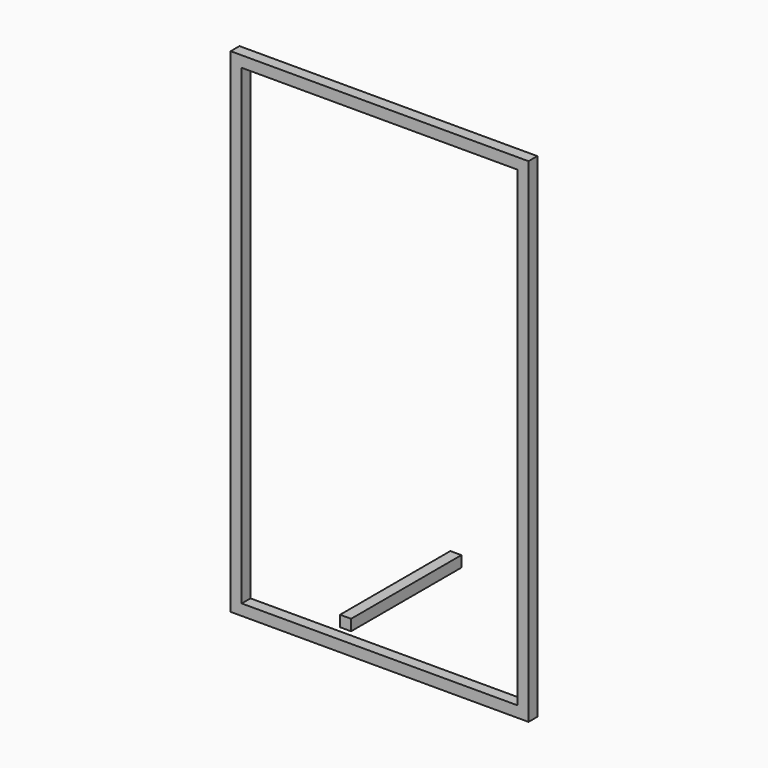
from build123d import *

# Parameters (mm, degrees)
F0_W     = 40
F0_H     = 1710
F1_DEPTH = 40
F2_W     = 40
F2_H     = 40
F3_DEPTH = 500


with BuildPart() as f1:
    # F0 (on Front) → F1 (new body)
    with BuildSketch(Plane.XZ):
        Polygon((999.77943, 0), (-80.22057, 0), (-80.22057, -40), (-40.22057, -40), (959.77943, -40), (999.77943, -40), align=None)
        with Locations((-60.22057, -895)):
            Rectangle(F0_W, F0_H)
        with Locations((979.77943, -895)):
            Rectangle(F0_W, F0_H)
        Polygon((-40.22057, -1750), (-80.22057, -1750), (-80.22057, -1790), (999.77943, -1790), (999.77943, -1750), (959.77943, -1750), align=None)
    extrude(amount=F1_DEPTH)


with BuildPart() as f3:
    # F2 (on Front) → F3 (new body)
    with BuildSketch(Plane.XZ):
        with Locations((704.343736, -1383.341296)):
            Rectangle(F2_W, F2_H)
    extrude(amount=F3_DEPTH)


solid = Compound([f1.part, f3.part])
